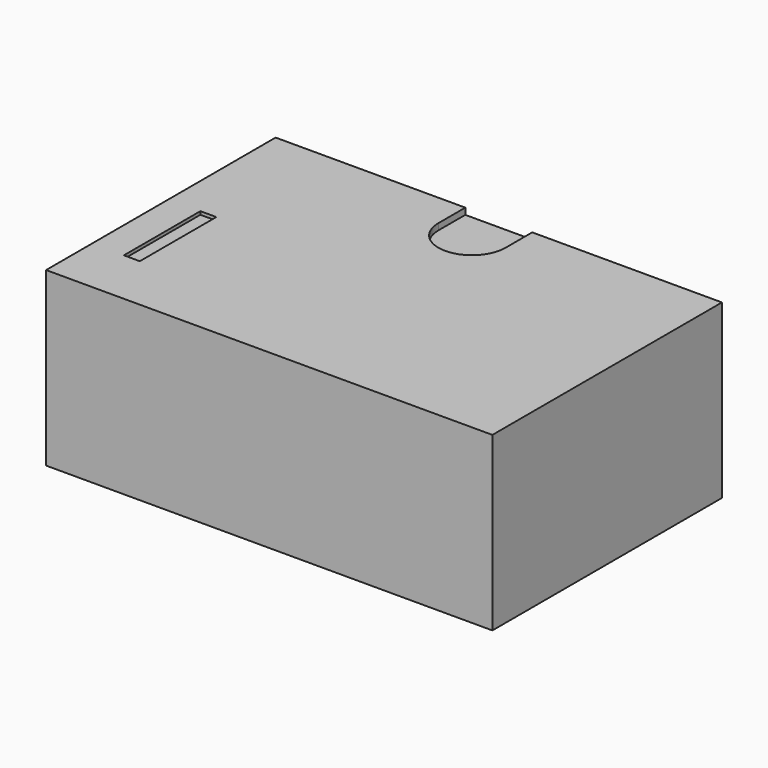
from build123d import *

# Parameters (mm, degrees)
CYLINDER_R     = 1.05
CYLINDER_DEPTH = 0.2
BOX003_W       = 2.1
BOX003_H       = 1.05
BOX003_DEPTH   = 0.2
BOX002_W       = 0.5
BOX002_H       = 3
BOX002_DEPTH   = 0.1
BOX_W          = 14
BOX_H          = 9
BOX_DEPTH      = 5.4


with BuildPart() as cylinder:
    # Cylinder → Cylinder (new body)
    with BuildSketch(Plane(origin=(0, 3.45, 6.3), x_dir=(1, 0, 0), z_dir=(0, 0, 1))):
        Circle(CYLINDER_R)
    extrude(amount=CYLINDER_DEPTH)


with BuildPart() as fusion:
    # Box003 → Box003 (new body)
    with BuildSketch(Plane(origin=(-1.05, 3.45, 6.3), x_dir=(1, 0, 0), z_dir=(0, 0, 1))):
        with Locations((1.05, 0.525)):
            Rectangle(BOX003_W, BOX003_H)
    extrude(amount=BOX003_DEPTH)

    # Fusion: union Cylinder
    add(cylinder.part)


with BuildPart() as bodystripe001:
    # Box002 → Box002 (new body)
    with BuildSketch(Plane(origin=(-6, -2.7, 6.4), x_dir=(1, 0, 0), z_dir=(0, 0, 1))):
        with Locations((0.25, 1.5)):
            Rectangle(BOX002_W, BOX002_H)
    extrude(amount=BOX002_DEPTH)


with BuildPart() as cut001:
    # Box → Box (new body)
    with BuildSketch(Plane(origin=(-7, -4.5, 1.1), x_dir=(1, 0, 0), z_dir=(0, 0, 1))):
        with Locations((7, 4.5)):
            Rectangle(BOX_W, BOX_H)
    extrude(amount=BOX_DEPTH)

    # Cut: cut BodyStripe001
    add(bodystripe001.part, mode=Mode.SUBTRACT)

    # Cut001: cut Fusion
    add(fusion.part, mode=Mode.SUBTRACT)


solid = cut001.part
